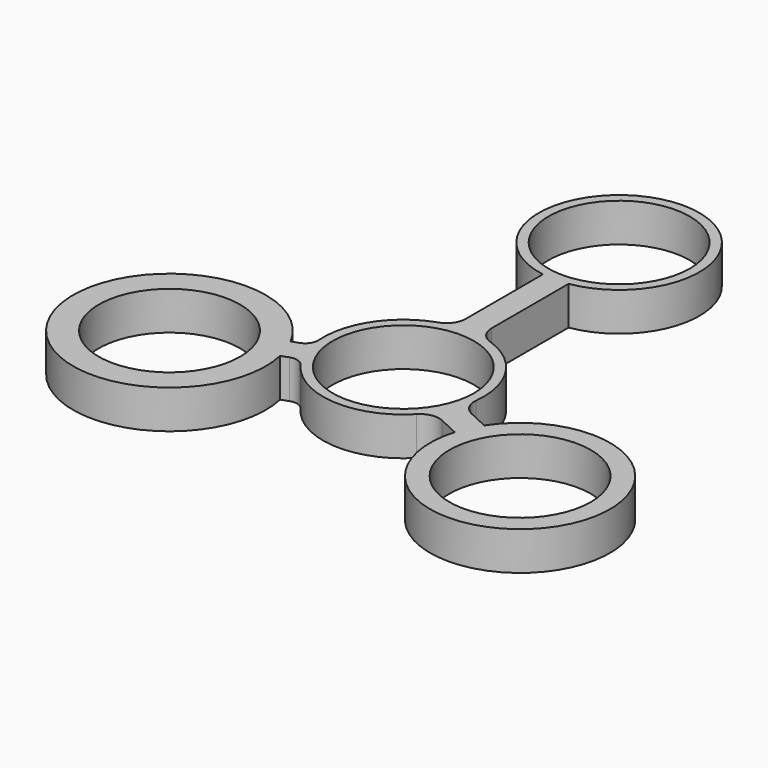
from build123d import *

# Parameters (mm, degrees)
F0_R     = 11
F1_DEPTH = 3


with BuildPart() as f1:
    # F0 (on Top) → F1 (new body, symmetric)
    with BuildSketch(Plane.XY):
        with BuildLine():
            ThreePointArc((-2, 14.671401), (-2.560407, 12.925438), (-4.032258, 11.831775))
            ThreePointArc((-4.032258, 11.831775), (-10.411858, 6.916879), (-12.469754, -0.869041))
            ThreePointArc((-12.469754, -0.869041), (-12.787701, -2.097561), (-13.780875, -2.887473))
            Line((-13.780875, -2.887473), (-14.905284, -3.296724))
            ThreePointArc((-14.905284, -3.296724), (-42.286168, -15.390906), (-13.537203, -7.055495))
            Line((-13.537203, -7.055495), (-12.412794, -6.646243))
            ThreePointArc((-12.412794, -6.646243), (-11.144234, -6.61295), (-10.110995, -7.34968))
            ThreePointArc((-10.110995, -7.34968), (-0.850808, -12.471011), (9.019124, -8.654791))
            ThreePointArc((9.019124, -8.654791), (10.63235, -7.783043), (12.451568, -8.013017))
            Line((12.451568, -8.013017), (15.598444, -9.48043))
            ThreePointArc((15.598444, -9.48043), (41.690158, -19.44044), (17.288917, -5.855198))
            Line((17.288917, -5.855198), (14.142041, -4.387786))
            ThreePointArc((14.142041, -4.387786), (12.7965, -3.142009), (12.427336, -1.345857))
            ThreePointArc((12.427336, -1.345857), (10.542393, 6.716245), (4.032258, 11.831775))
            ThreePointArc((4.032258, 11.831775), (2.560407, 12.925438), (2, 14.671401))
            Line((2, 14.671401), (2, 29.661037))
            ThreePointArc((2, 29.661037), (0, 54.5), (-2, 29.661037))
            Line((-2, 29.661037), (-2, 14.671401))
        make_face()
        with Locations((-28.190779, -10.260604)):
            Circle(F0_R, mode=Mode.SUBTRACT)
        with Locations((29.001849, -13.523784)):
            Circle(F0_R, mode=Mode.SUBTRACT)
        Circle(F0_R, mode=Mode.SUBTRACT)
        with Locations((0, 42)):
            Circle(F0_R, mode=Mode.SUBTRACT)
    extrude(amount=F1_DEPTH, both=True)


solid = f1.part
